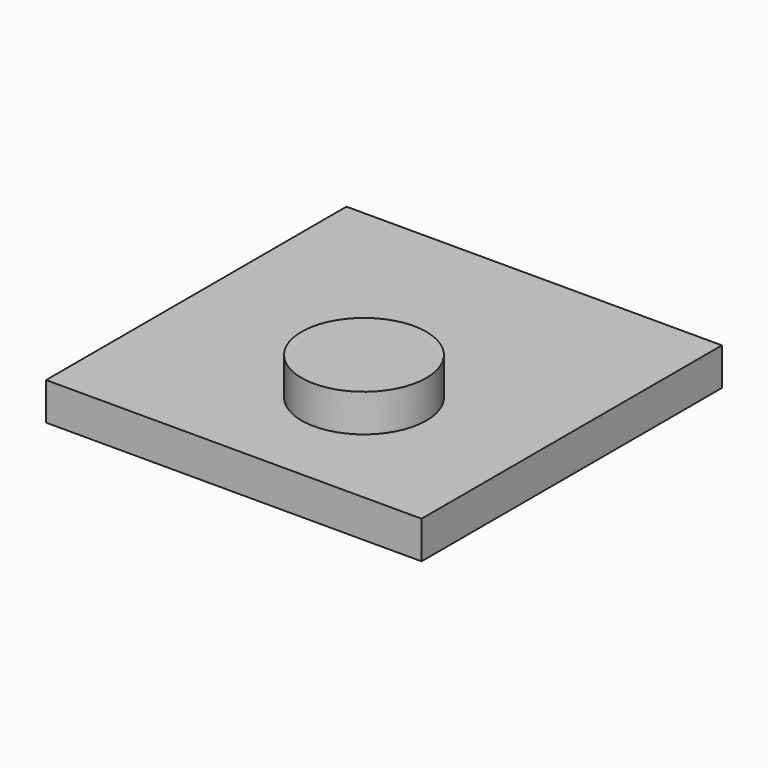
from build123d import *

# Parameters (mm, degrees)
F0_W     = 2540
F0_H     = 2540
F1_DEPTH = 508
F2_W     = 2540
F2_H     = 2540
F2_R     = 422.566683
F3_DEPTH = 254


with BuildPart() as f1:
    # F0 (on Top) → F1 (new body)
    with BuildSketch(Plane.XY):
        with Locations((1270, 1270)):
            Rectangle(F0_W, F0_H)
    extrude(amount=F1_DEPTH)

    # F2 (on face) → F3 (cut)
    with BuildSketch(Plane.XY.offset(508)):
        with Locations((1270, 1270)):
            Rectangle(F2_W, F2_H)
        with Locations((1436.324596, 892.725945)):
            Circle(F2_R, mode=Mode.SUBTRACT)
    extrude(amount=-F3_DEPTH, mode=Mode.SUBTRACT)


solid = f1.part
